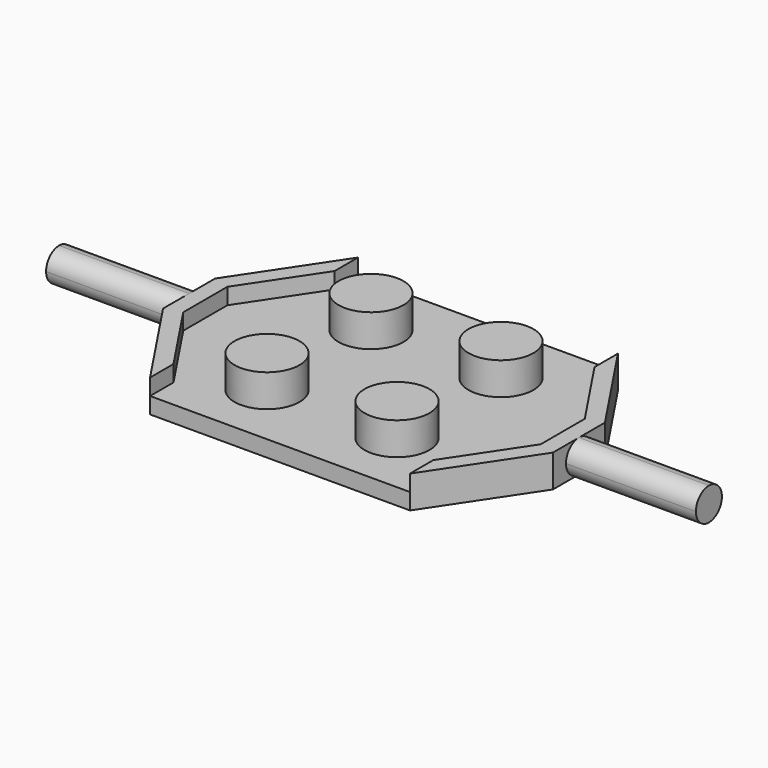
from build123d import *

# Parameters (mm, degrees)
F1_DEPTH = 1
F2_R     = 2
F3_DEPTH = 2
F5_DEPTH = 1
F8_DEPTH = 8


with BuildPart() as f1:
    # F0 (on Top) → F1 (new body)
    with BuildSketch(Plane.XY):
        Polygon((0, -8), (0, 0), (-12, 0), (-12, -2), (-8, -8), align=None)
        Polygon((-12, 0), (0, 0), (0, 8), (-8, 8), (-12, 2), align=None)
    extrude(amount=F1_DEPTH)

    # F2 (on face) → F3 (join)
    with BuildSketch(Plane.XY.offset(1)):
        with Locations((-4, 4)):
            Circle(F2_R)
        with Locations((-4, -4)):
            Circle(F2_R)
    extrude(amount=F3_DEPTH)


with BuildPart() as f5:
    # F4 (on face) → F5 (new body)
    with BuildSketch(Plane.XY.offset(1)):
        Polygon((-8, 6.197224), (-8, 8), (-12, 2), (-12, -2), (-8, -8), (-8, -6.197224), (-11, -1.697224), (-11, 1.697224), align=None)
    extrude(amount=F5_DEPTH)


with BuildPart() as f1_1:
    add(f1.part)

    # F6: union F5
    add(f5.part)

    # F7 (on face) → F8 (join)
    with BuildSketch(Plane(origin=(-12, 0, 0), x_dir=(0, -1, 0), z_dir=(-1, 0, 0))):
        with BuildLine():
            ThreePointArc((0, 0), (0.707107, 0.292893), (1, 1))
            ThreePointArc((1, 1), (0.707107, 1.707107), (0, 2))
            ThreePointArc((0, 2), (-1, 1), (0, 0))
        make_face()
    extrude(amount=F8_DEPTH)

    # F9: F1 across face


with BuildPart() as f1_2:
    add(f1_1.part)
    add(f1_1.part.mirror(Plane(origin=(0, 0, 0.5), x_dir=(0, 1, 0), z_dir=(1, 0, 0))))


solid = f1_2.part
